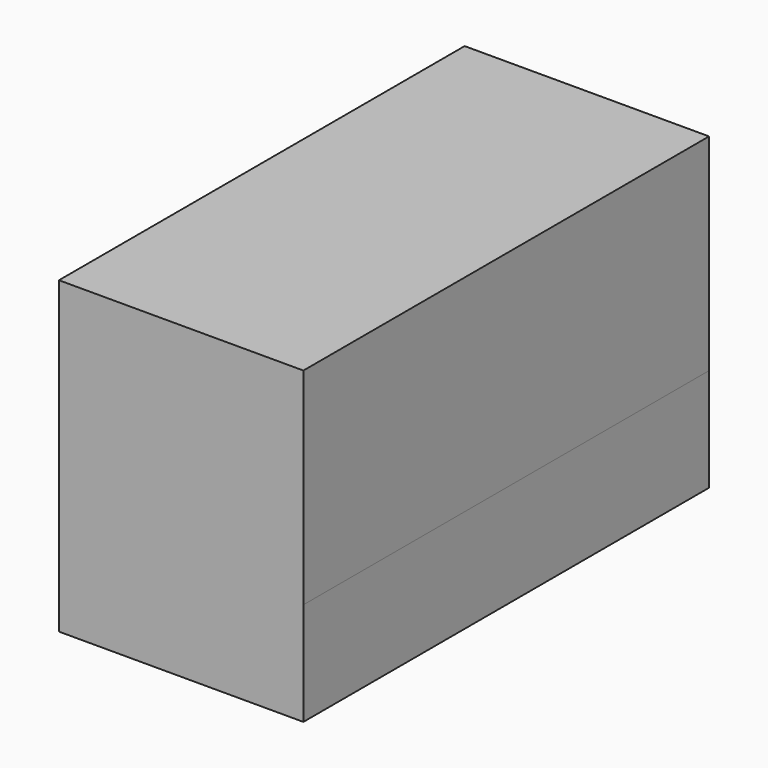
from build123d import *

# Parameters (mm, degrees)
F0_W      = 30.106247
F0_H      = 62.454224
F1_DEPTH  = 12.7
F1_FACE_W = 30.106246
F1_FACE_H = 62.454224
F2_DEPTH  = 25.4


with BuildPart() as f1:
    # F0 (on Top) → F1 (new body)
    with BuildSketch(Plane.XY):
        with Locations((42.255565, -31.227112)):
            Rectangle(F0_W, F0_H)
    extrude(amount=F1_DEPTH)

    # F1_face (on face) + F0 (on Top) → F2 (join)
    with BuildSketch(Plane(origin=(42.255566, -31.227112, 12.7), x_dir=(1, 0, 0), z_dir=(0, 0, 1))):
        Rectangle(F1_FACE_W, F1_FACE_H)
    with BuildSketch(Plane.XY):
        with Locations((42.255565, -31.227112)):
            Rectangle(F0_W, F0_H)
    extrude(amount=F2_DEPTH)


solid = f1.part
